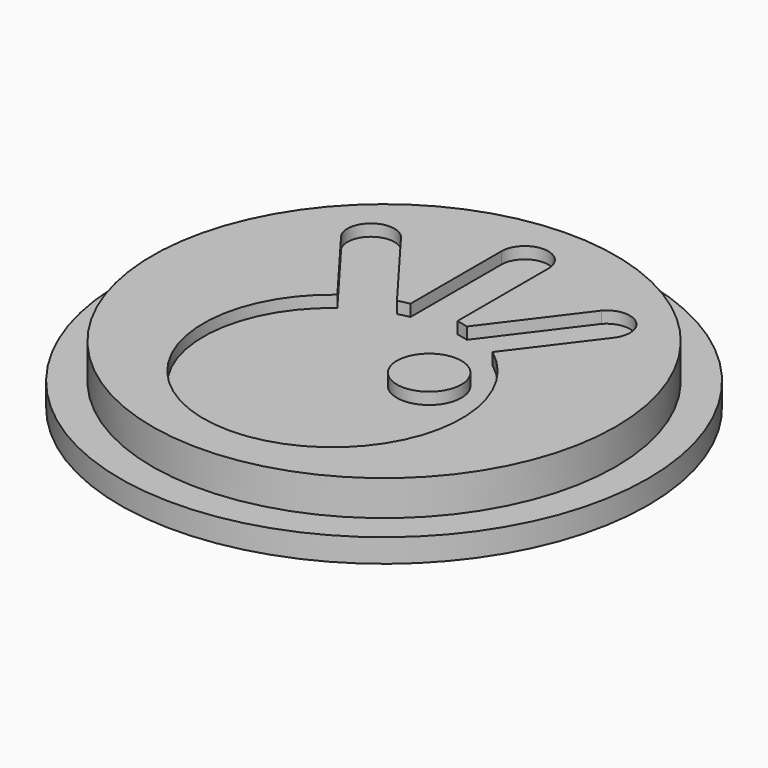
from build123d import *

# Parameters (mm, degrees)
SKETCH027_R     = 22.5
PAD008_DEPTH    = 2
SKETCH028_R     = 19.75
PAD009_DEPTH    = 3
POCKET014_DEPTH = 1
SKETCH030_R     = 2.75
PAD010_DEPTH    = 1


with BuildPart() as part:
    # Sketch027 → Pad008 (new body)
    with BuildSketch(Plane.XY):
        with Locations((-27.752922, -27.875624)):
            Circle(SKETCH027_R)
    extrude(amount=PAD008_DEPTH)

    # Sketch028 (on Face3 of Pad008) → Pad009 (join)
    with BuildSketch(Plane.XY.offset(2)):
        with Locations((-27.752922, -27.875624)):
            Circle(SKETCH028_R)
    extrude(amount=PAD009_DEPTH)

    # Sketch029 (on Face5 of Pad009) → Pocket014 (cut)
    with BuildSketch(Plane.XY.offset(5)):
        with BuildLine():
            ThreePointArc((-34.368184, -24.587091), (-27.755113, -44.375624), (-21.134159, -24.589727))
            Line((-16.118527, -17.931863), (-21.134159, -24.589727))
            ThreePointArc((-16.118527, -17.931863), (-16.443912, -15.185115), (-19.202253, -15.39019))
            Line((-24.774256, -22.786594), (-19.202253, -15.39019))
            ThreePointArc((-24.774256, -22.786594), (-25.260988, -22.661602), (-25.752922, -22.55897))
            Line((-25.752922, -12.875624), (-25.752922, -22.55897))
            ThreePointArc((-25.752922, -12.875624), (-27.752922, -10.875624), (-29.752922, -12.875624))
            Line((-29.752922, -12.875624), (-29.752922, -22.55897))
            ThreePointArc((-29.752922, -22.55897), (-30.242757, -22.661114), (-30.727441, -22.785429))
            Line((-36.191966, -15.525677), (-30.727441, -22.785429))
            ThreePointArc((-36.191966, -15.525677), (-39.061624, -15.184862), (-39.276171, -18.066713))
            Line((-39.276171, -18.066713), (-34.368184, -24.587091))
        make_face()
    extrude(amount=-POCKET014_DEPTH, mode=Mode.SUBTRACT)

    # Sketch030 (on Face18 of Pocket014) → Pad010 (join)
    with BuildSketch(Plane.XY.offset(4)):
        with Locations((-22.574881, -29.54578)):
            Circle(SKETCH030_R)
    extrude(amount=PAD010_DEPTH)


solid = part.part
